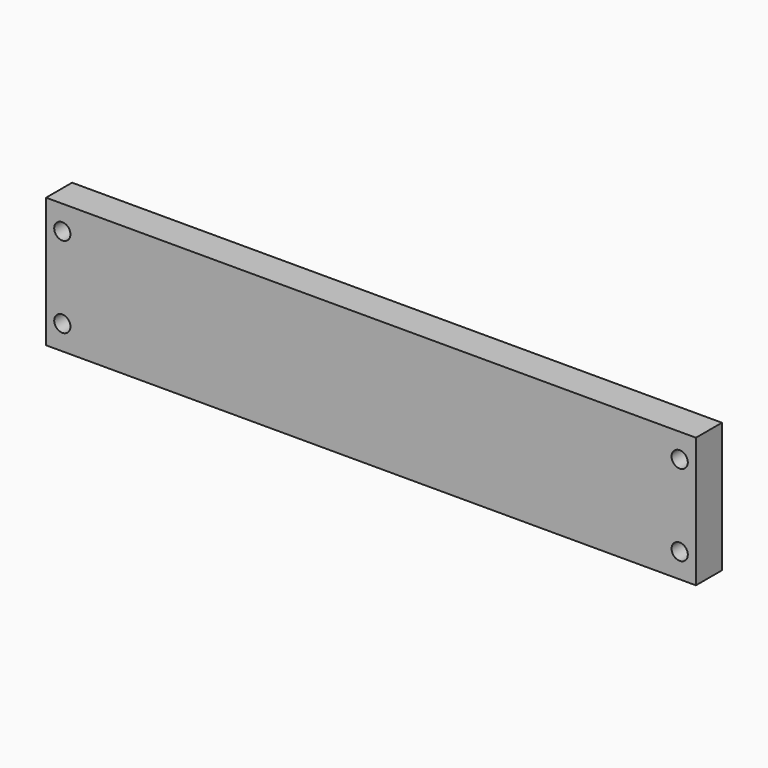
from build123d import *

# Parameters (mm, degrees)
F0_W     = 254
F0_H     = 50.8
F1_DEPTH = 12.7
F2_D     = 6.35


with BuildPart() as f1:
    # F0 (on Front) → F1 (new body)
    with BuildSketch(Plane.XZ):
        Rectangle(F0_W, F0_H)
    extrude(amount=-F1_DEPTH)

    # F2 (through all)
    with Locations(Plane.XZ):
        with Locations((120.65, 15.875), (120.65, -15.875), (-120.65, -15.875), (-120.65, 15.875)):
            Hole(F2_D / 2)


solid = f1.part
